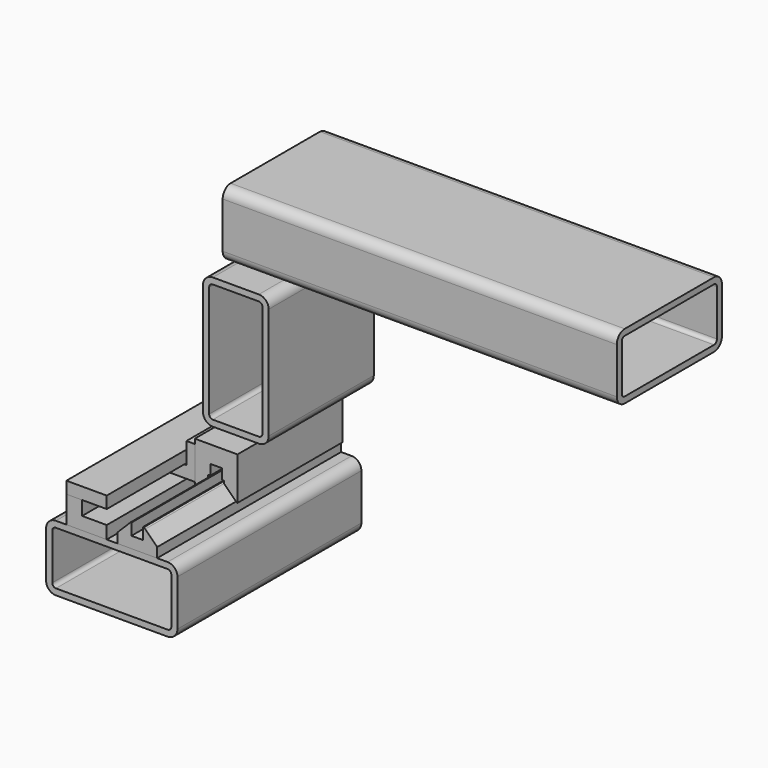
from build123d import *

# Parameters (mm, degrees)
F1_DEPTH       = 177.8
F2_DEPTH       = 101.6
F4_DEPTH       = 101.6
F5_DEPTH       = 177.8
F6_DEPTH       = 177.8
F7_W           = 101.6
F7_H           = 50.8
F8_DEPTH       = 177.8
F9_R           = 7.62
F10_T          = -4.7752
F11_DEPTH      = 25.4
F12_W          = 50.8
F12_H          = 101.6
F13_DEPTH      = 82.55
F13_DEPTH_BACK = 19.05
F14_R          = 7.62
F15_T          = -4.7752
F16_DEPTH      = 25.4
F18_DEPTH      = 304.8
F19_R          = 7.62
F20_T          = -4.7752
F21_DEPTH      = 25.4


with BuildPart() as f1:
    # F0 (on Front) → F1 (new body)
    with BuildSketch(Plane.XZ):
        Polygon((-15.3582496569, 0), (0, 0), (15.3582496569, 0), (15.3582496569, 7.5618312694), (6.1221620999, 16.7979188263), (5.1400809263, 17.78), (4.5, 17.78), (4.5, 8.78), (0, 8.78), (-4.5, 8.78), (-4.5, 17.78), (-5.1400809263, 17.78), (-6.1221620999, 16.7979188263), (-15.3582496569, 7.5618312694), align=None)
    extrude(amount=F1_DEPTH)


with BuildPart() as f2:
    # F0 (on Front) → F2 (new body)
    with BuildSketch(Plane.XZ):
        Polygon((6.1221620999, 16.7979188263), (15.3582496569, 7.5618312694), (15.9003665005, 7.0197144258), (16.51, 7.0197144258), (16.51, 40.0397144258), (0, 40.0397144258), (-16.51, 40.0397144258), (-16.51, 7.0197144258), (-15.9003665005, 7.0197144258), (-15.3582496569, 7.5618312694), (-6.1221620999, 16.7979188263), (-6.1221620999, 18.78), (-4.5, 18.78), (-4.5, 26.78), (0, 26.78), (4.5, 26.78), (4.5, 18.78), (6.1221620999, 18.78), align=None)
    extrude(amount=F2_DEPTH)


with BuildPart() as f4:
    # F3 (on Front) → F4 (new body, through all)
    with BuildSketch(Plane.XZ):
        Polygon((-41.9327285861, 10.634648865), (-16.51, 10.634648865), (-16.51, 36.2853350896), (-22.8579633763, 36.446148563), (-22.8579633763, 19.978956068), (-41.9327285861, 19.978956068), align=None)
    extrude(amount=F4_DEPTH)


with BuildPart() as f5:
    # F3 (on Front) → F5 (new body, through all)
    with BuildSketch(Plane.XZ):
        Polygon((-54.8555701971, 29.9320984632), (-54.8555701971, 20.740956068), (-42.6947285861, 20.740956068), (-23.6447285861, 20.740956068), (-23.6447285861, 29.9320984632), align=None)
    extrude(amount=F5_DEPTH)


with BuildPart() as f6:
    # F3 (on Front) → F6 (new body, through all)
    with BuildSketch(Plane.XZ):
        Polygon((-54.8555701971, 0), (-23.6447285861, 0), (-23.6447285861, 4.6855933033), (-23.6447285861, 7.5618312694), (-23.6447285861, 9.872648865), (-42.6947285861, 9.872648865), (-42.6947285861, 20.740956068), (-54.8555701971, 20.740956068), align=None)
    extrude(amount=F6_DEPTH)


with BuildPart() as f8:
    # F7 (on Front) → F8 (new body, through all)
    with BuildSketch(Plane.XZ):
        with Locations((-19.7486602701, -25.4)):
            Rectangle(F7_W, F7_H)
    extrude(amount=F8_DEPTH)

    # F9
    f9_edges = [f8.edges().sort_by_distance(p)[0] for p in [
        (-70.54866, -88.9, 0),
        (31.05134, -88.9, 0),
        (-70.54866, -88.9, -50.8),
        (31.05134, -88.9, -50.8),
    ]]
    fillet(f9_edges, radius=F9_R)

    # F10
    f10_openings = [f8.faces().sort_by_distance(p)[0] for p in [
        (-19.74866, -177.8, -25.4),
    ]]
    offset(amount=F10_T, openings=f10_openings)

    # F11 (cut): a face of the model
    f11_faces = [f8.faces().sort_by_distance(p)[0] for p in [
        (-19.7486602701, -4.7752, -25.4),
    ]]
    extrude(f11_faces, amount=-F11_DEPTH, mode=Mode.SUBTRACT)


with BuildPart() as f13:
    # F12 (on Front) → F13 (new body, two sides)
    with BuildSketch(Plane.XZ) as f13_sk:
        with Locations((0, 90.8397144258)):
            Rectangle(F12_W, F12_H)
    extrude(amount=F13_DEPTH)
    extrude(f13_sk.sketch, amount=-F13_DEPTH_BACK)

    # F14
    f14_edges = [f13.edges().sort_by_distance(p)[0] for p in [
        (25.4, -31.75, 141.639714),
        (25.4, -31.75, 40.039714),
        (-25.4, -31.75, 40.039714),
        (-25.4, -31.75, 141.639714),
    ]]
    fillet(f14_edges, radius=F14_R)

    # F15
    f15_openings = [f13.faces().sort_by_distance(p)[0] for p in [
        (0, -82.55, 90.839714),
    ]]
    offset(amount=F15_T, openings=f15_openings)

    # F16 (cut): a face of the model
    f16_faces = [f13.faces().sort_by_distance(p)[0] for p in [
        (0, 14.2748, 90.8397144258),
    ]]
    extrude(f16_faces, amount=-F16_DEPTH, mode=Mode.SUBTRACT)


with BuildPart() as f18:
    # F17 (on face) → F18 (new body)
    with BuildSketch(Plane(origin=(-25.4, 0, 0), x_dir=(0, -1, 0), z_dir=(-1, 0, 0))):
        Polygon((-38.1, 141.6397144258), (-19.05, 141.6397144258), (63.5, 141.6397144258), (63.5, 192.4397144258), (-38.1, 192.4397144258), align=None)
    extrude(amount=-F18_DEPTH)

    # F19
    f19_edges = [f18.edges().sort_by_distance(p)[0] for p in [
        (127, 38.1, 141.639714),
        (127, -63.5, 141.639714),
        (127, -63.5, 192.439714),
        (127, 38.1, 192.439714),
    ]]
    fillet(f19_edges, radius=F19_R)

    # F20
    f20_openings = [f18.faces().sort_by_distance(p)[0] for p in [
        (-25.4, -12.7, 167.039714),
    ]]
    offset(amount=F20_T, openings=f20_openings)

    # F21 (cut): a face of the model
    f21_faces = [f18.faces().sort_by_distance(p)[0] for p in [
        (274.6248, -12.7, 167.0397144258),
    ]]
    extrude(f21_faces, amount=-F21_DEPTH, mode=Mode.SUBTRACT)


solid = Compound([f1.part, f2.part, f4.part, f5.part, f6.part, f8.part, f13.part, f18.part])
